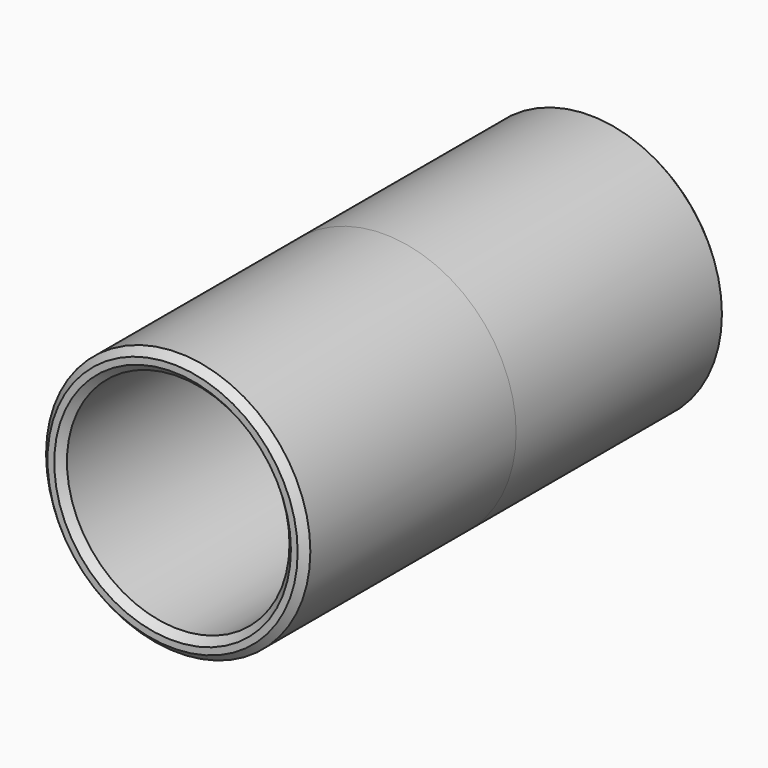
from build123d import *

# Parameters (mm, degrees)
F0_R     = 1.5875
F1_DEPTH = 3.81
F2_R     = 9.525
F2_R_2   = 8.0221390402
F3_DEPTH = 19.05
F4_R     = 9.525
F5_DEPTH = 19.05
F6_W     = 9.652
F6_H     = 9.652
F7_DEPTH = 12.7
F8_R     = 0.762
F9_SIZE  = 0.508


with BuildPart() as f1:
    # F0 (on Front) → F1 (new body)
    with BuildSketch(Plane.XZ):
        with Locations((0, 3.96875)):
            Circle(F0_R)
    extrude(amount=F1_DEPTH)



with BuildPart() as f1b:
    # F0 (on Front) → F1, piece 2 (new body)
    with BuildSketch(Plane.XZ):
        with Locations((0, -3.96875)):
            Circle(F0_R)
    extrude(amount=F1_DEPTH)


with BuildPart() as f3:
    # F2 (on face) → F3 (new body)
    with BuildSketch(Plane.XZ):
        Circle(F2_R)
        Circle(F2_R_2, mode=Mode.SUBTRACT)
    extrude(amount=F3_DEPTH)


with BuildPart() as f1_1:
    add(f1.part)

    add(f1b.part)  # F5 merges F1b

    add(f3.part)  # F5 merges F3
    # F4 (on face) → F5 (join)
    with BuildSketch(Plane(origin=(0, 0, 0), x_dir=(-1, 0, 0), z_dir=(0, 1, 0))):
        Circle(F4_R)
    extrude(amount=F5_DEPTH)

    # F6 (on face) → F7 (cut)
    with BuildSketch(Plane(origin=(0, 19.05, 0), x_dir=(-1, 0, 0), z_dir=(0, 1, 0))):
        Rectangle(F6_W, F6_H)
    extrude(amount=-F7_DEPTH, mode=Mode.SUBTRACT)

    # F8
    f8_edges = [f1_1.edges().sort_by_distance(p)[0] for p in [
        (-4.826, 12.7, -4.826),
        (-4.826, 12.7, 4.826),
        (4.826, 12.7, 4.826),
        (4.826, 12.7, -4.826),
    ]]
    fillet(f8_edges, radius=F8_R)

    # F9
    f9_edges = [f1_1.edges().sort_by_distance(p)[0] for p in [
        (0, 19.05, -4.826),
        (9.525, 19.05, 0),
        (-9.525, -19.05, 0),
        (-8.022139, -19.05, 0),
        (-1.5875, -3.81, 3.96875),
        (-1.5875, -3.81, -3.96875),
    ]]
    chamfer(f9_edges, length=F9_SIZE)


solid = f1_1.part
